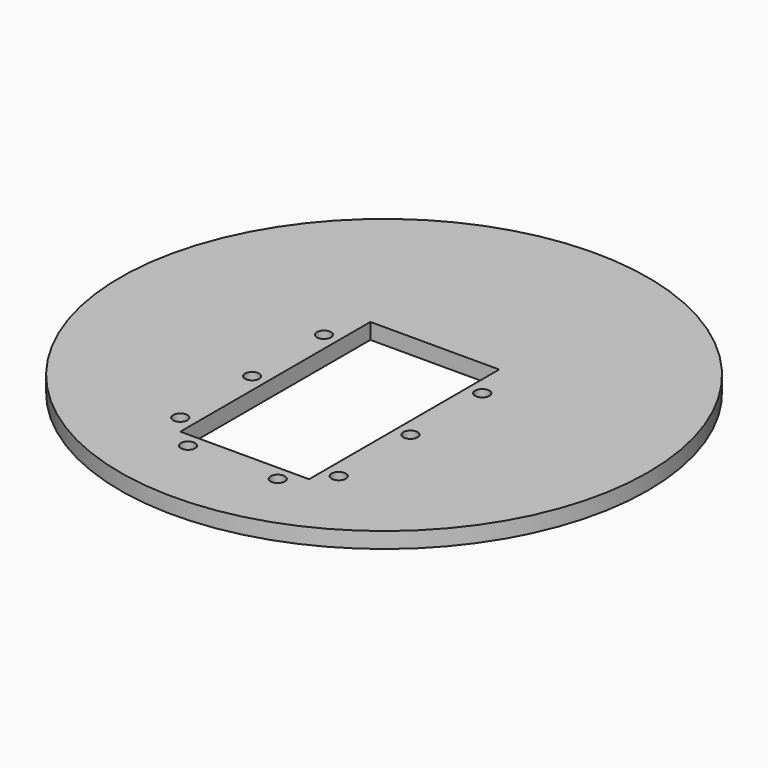
from build123d import *

# Parameters (mm, degrees)
F1_R     = 50
F2_DEPTH = 3
F0_W     = 24.4
F0_H     = 45
F0_R     = 1.35
F3_DEPTH = 25


with BuildPart() as f2:
    # F1 (on Top) → F2 (new body)
    with BuildSketch(Plane.XY):
        Circle(F1_R)
    extrude(amount=F2_DEPTH)

    # F0 (on Top) → F3 (cut)
    with BuildSketch(Plane.XY):
        with Locations((0, -10.5)):
            Rectangle(F0_W, F0_H)
        with Locations((-15, 4.5)):
            Circle(F0_R)
        with Locations((-15, -12.5)):
            Circle(F0_R)
        with Locations((-15, -29.5)):
            Circle(F0_R)
        with Locations((15, 4.5)):
            Circle(F0_R)
        with Locations((15, -12.5)):
            Circle(F0_R)
        with Locations((15, -29.5)):
            Circle(F0_R)
        with Locations((-8.5, -35.8)):
            Circle(F0_R)
        with Locations((8.5, -35.8)):
            Circle(F0_R)
    extrude(amount=F3_DEPTH, mode=Mode.SUBTRACT)


solid = f2.part
